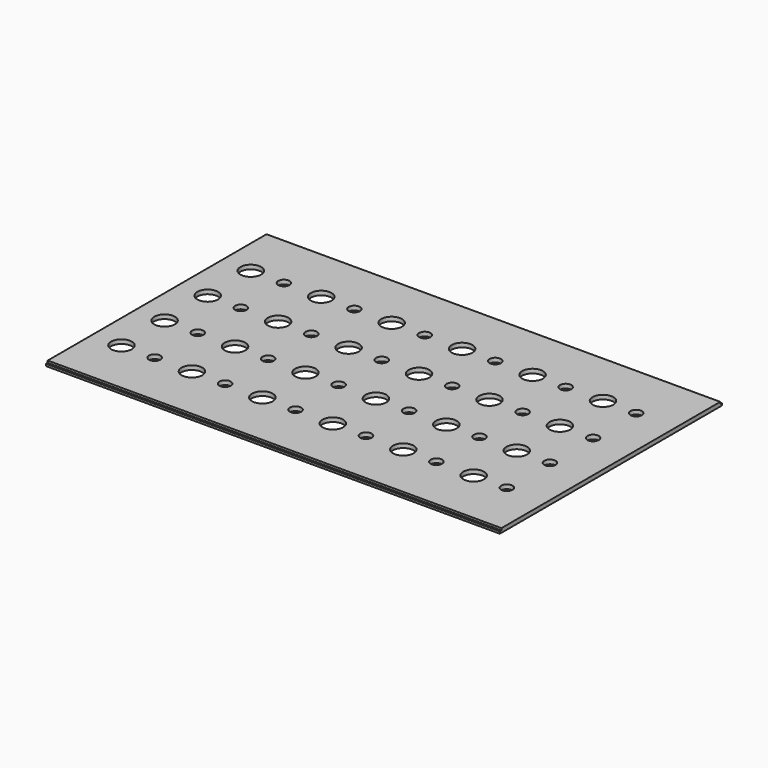
from build123d import *

# Parameters (mm, degrees)
SKETCH_W            = 219
SKETCH_H            = 134
PAD_DEPTH           = 2
SKETCH001_R         = 5
SKETCH001_R_2       = 2.75
POCKET_DEPTH        = 2.001
LINEARPATTERN_COUNT = 6
LINEARPATTERN_PITCH = 34
SKETCH002_W         = 219
SKETCH002_H         = 1
POCKET001_DEPTH     = 1


with BuildPart() as part:
    # Sketch (on Sketch) → Pad (new body)
    with BuildSketch(Plane.XY):
        Rectangle(SKETCH_W, SKETCH_H)
    extrude(amount=PAD_DEPTH)

    # Sketch001 → Pocket (cut, through all)
    with BuildSketch(Plane.XY):
        with Locations((-95.5, 39)):
            Circle(SKETCH001_R)
        with Locations((-95.5, 13)):
            Circle(SKETCH001_R)
        with Locations((-95.5, -13)):
            Circle(SKETCH001_R)
        with Locations((-95.5, -39)):
            Circle(SKETCH001_R)
        with Locations((-79.5, 39)):
            Circle(SKETCH001_R_2)
        with Locations((-79.5, 13)):
            Circle(SKETCH001_R_2)
        with Locations((-79.5, -13)):
            Circle(SKETCH001_R_2)
        with Locations((-79.5, -39)):
            Circle(SKETCH001_R_2)
    pocket = extrude(amount=POCKET_DEPTH, mode=Mode.SUBTRACT)

    # LinearPattern: Pocket ×6
    with Locations(*[(i * LINEARPATTERN_PITCH, 0, 0) for i in range(1, LINEARPATTERN_COUNT)]):
        add(pocket, mode=Mode.SUBTRACT)

    # Sketch002 (on Face5 of LinearPattern) → Pocket001 (cut)
    with BuildSketch(Plane.XY.offset(2)):
        with Locations((0, 66.5)):
            Rectangle(SKETCH002_W, SKETCH002_H)
    pocket001 = extrude(amount=-POCKET001_DEPTH, mode=Mode.SUBTRACT)

    # Mirrored: Pocket001 across XZ
    add(pocket001.mirror(Plane.XZ), mode=Mode.SUBTRACT)


solid = part.part
